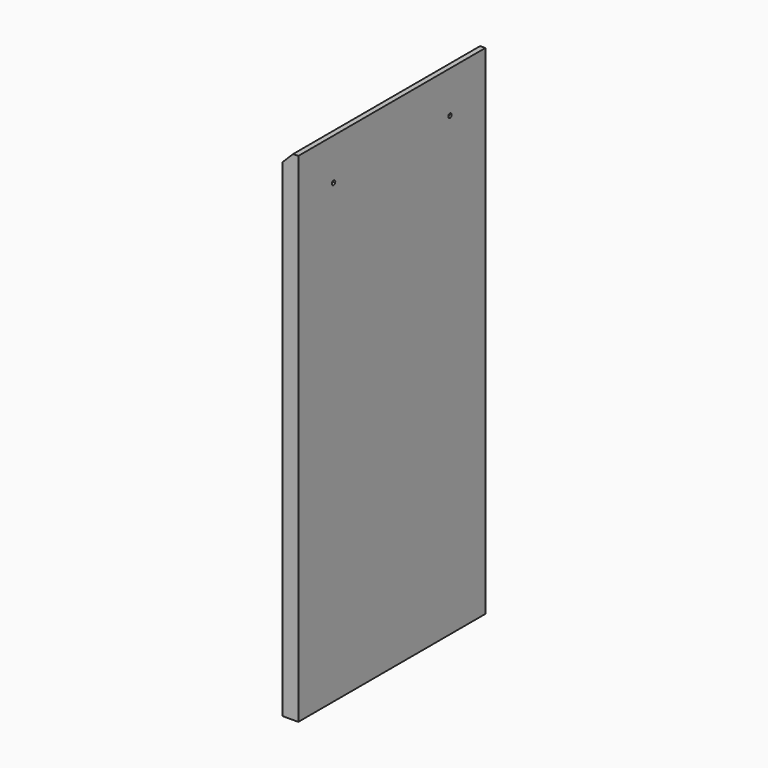
from build123d import *

# Parameters (mm, degrees)
F0_W     = 38.1
F0_H     = 1218.184
F1_DEPTH = 571.5
F2_SIZE2 = 25.4
F2_SIZE  = 25.4
F4_D     = 5.08
F4_DEPTH = 5.08
F4_TIP   = 1.5261859723
F6_D     = 10.16
F6_DEPTH = 5.08
F6_TIP   = 3.0523719447


with BuildPart() as f1:
    # F0 (on Front) → F1 (new body)
    with BuildSketch(Plane.XZ):
        with Locations((19.05, 609.092)):
            Rectangle(F0_W, F0_H)
    extrude(amount=F1_DEPTH)

    # F2
    f2_edges = [f1.edges().sort_by_distance(p)[0] for p in [
        (0, -285.75, 1218.184),
    ]]
    chamfer(f2_edges, length=F2_SIZE, length2=F2_SIZE2)

    # F4
    with Locations(Plane(origin=(-596.392, 0, 596.392), x_dir=(0, -1, 0), z_dir=(-0.7071067812, 0, 0.7071067812))):
        with Locations((3.9624, 874.086167133), (3.9624, 848.686167133), (46.8376, 874.086167133), (46.8376, 848.686167133), (524.6624, 874.086167133), (524.6624, 848.686167133), (567.5376, 848.686167133), (567.5376, 874.086167133)):
            Hole(F4_D / 2, depth=F4_DEPTH)
            with Locations((0, 0, -(F4_DEPTH + F4_TIP / 2))):  # 118° drill point
                Cone(0, F4_D / 2, F4_TIP, mode=Mode.SUBTRACT)

    # F6
    with Locations(Plane.YZ.offset(38.1)):
        with Locations((-463.55, 1116.584), (-107.95, 1116.584)):
            Hole(F6_D / 2, depth=F6_DEPTH)
            with Locations((0, 0, -(F6_DEPTH + F6_TIP / 2))):  # 118° drill point
                Cone(0, F6_D / 2, F6_TIP, mode=Mode.SUBTRACT)


solid = f1.part
